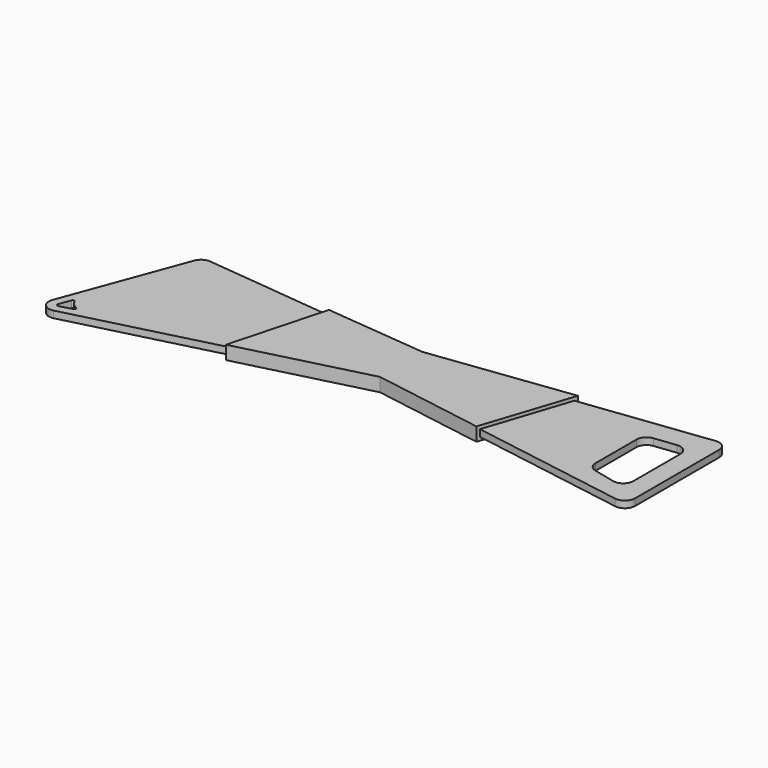
from build123d import *

# Parameters (mm, degrees)
F1_DEPTH = 2
F4_DEPTH = 4


with BuildPart() as f1:
    # F0 (on Top) → F1 (new body)
    with BuildSketch(Plane.XY):
        with BuildLine():
            ThreePointArc((-88.609635, -30.740412), (-88.025797, -33.790892), (-85.052769, -34.689448))
            Line((-85.052769, -34.689448), (-4.571978, -14.08916))
            Line((-4.571978, -14.08916), (74.421399, -27.135575))
            ThreePointArc((74.421399, -27.135575), (76.851056, -26.463309), (77.910252, -24.175673))
            Line((77.910252, -24.175673), (77.910252, 6.780489))
            ThreePointArc((77.910252, 6.780489), (76.898458, 9.02705), (74.545561, 9.75824))
            Line((74.545561, 9.75824), (-5.131812, 0))
            Line((-5.131812, 0), (-72.237842, 6.945113))
            ThreePointArc((-72.237842, 6.945113), (-74.130924, 6.508631), (-75.35963, 5.003785))
            Line((-75.35963, 5.003785), (-88.609635, -30.740412))
        make_face()
        with BuildLine():
            ThreePointArc((-85.619408, -32.271752), (-86.185087, -32.108984), (-86.298307, -31.531344))
            Line((-86.298307, -31.531344), (-85.052094, -28.169468))
            ThreePointArc((-85.052094, -28.169468), (-84.59562, -27.843409), (-84.123599, -28.146525))
            ThreePointArc((-84.123599, -28.146525), (-83.238457, -29.451769), (-81.929654, -30.33164))
            ThreePointArc((-81.929654, -30.33164), (-81.625618, -30.825075), (-81.991952, -31.274202))
            Line((-81.991952, -31.274202), (-85.619408, -32.271752))
        make_face(mode=Mode.SUBTRACT)
        with BuildLine():
            Line((72.241887, -0.38926), (72.241887, -17.70067))
            ThreePointArc((72.241887, -17.70067), (71.098693, -20.056996), (68.540372, -20.617497))
            Line((68.540372, -20.617497), (62.14362, -19.079038))
            ThreePointArc((62.14362, -19.079038), (60.488809, -18.019017), (59.845135, -16.162211))
            Line((59.845135, -16.162211), (59.845135, -1.118004))
            ThreePointArc((59.845135, -1.118004), (60.606974, 0.879654), (62.505559, 1.862716))
            Line((62.505559, 1.862716), (68.902312, 2.591459))
            ThreePointArc((68.902312, 2.591459), (71.239545, 1.848901), (72.241887, -0.38926))
        make_face(mode=Mode.SUBTRACT)
    extrude(amount=F1_DEPTH)


with BuildPart() as f4:
    # F3 (on offset) → F4 (new body)
    with BuildSketch(Plane.XY.offset(-1)):
        Polygon((-34.607757, 3.660409), (-42.271342, -24.713343), (-4.532447, -15.080688), (28.192187, -20.490808), (36.901165, 6.03198), (-4.714334, 0.757373), align=None)
    extrude(amount=F4_DEPTH)


solid = Compound([f1.part, f4.part])
